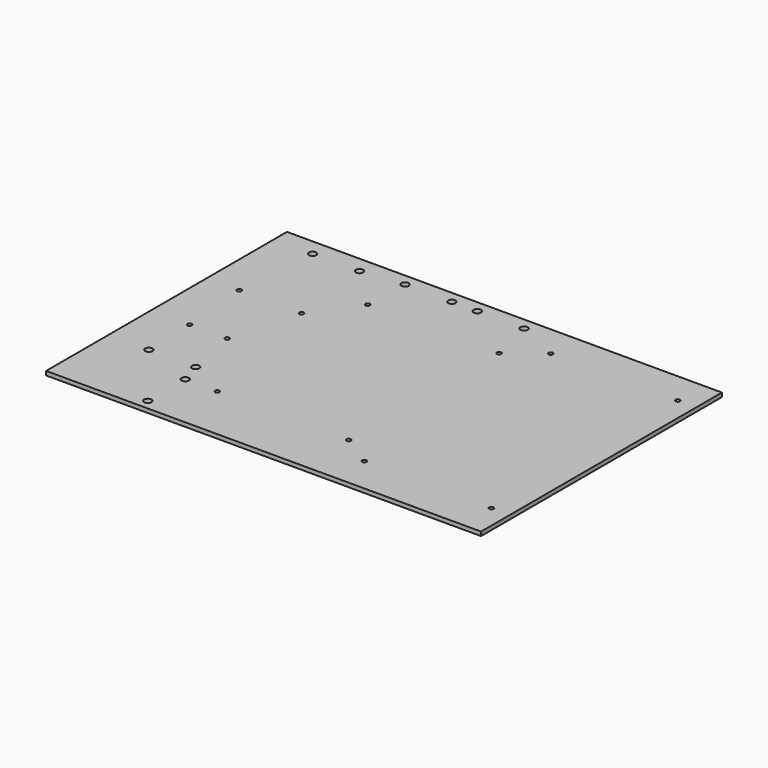
from build123d import *

# Parameters (mm, degrees)
F0_W     = 325
F0_H     = 225
F1_DEPTH = 3
F2_D     = 3.3
F2_DEPTH = 15
F2_TIP   = 0.9914200214
F3_D     = 5.5
F3_DEPTH = 15
F3_TIP   = 1.6523667023


with BuildPart() as f1:
    # F0 (on Top) → F1 (new body)
    with BuildSketch(Plane.XY):
        Rectangle(F0_W, F0_H)
    extrude(amount=F1_DEPTH)

    # F2
    with Locations(Plane(origin=(0, 0, 0), x_dir=(1, 0, 0), z_dir=(0, 0, -1))):
        with Locations((148.6963902414, -88.5308509469), (53.6963902414, -88.5308509469), (148.6963902414, 85.4691490531), (53.6963902414, 85.4691490531), (-68.3129802346, -70.1252296567), (29.8870197654, -70.1252296567), (29.8870197654, 70.3747703433), (-68.3129802346, 70.3747703433), (-91.600900948, -37.483430326), (-105.600900948, 14.516569674), (-133.600900948, 14.516569674), (-138.100900948, -37.483430326)):
            Hole(F2_D / 2, depth=F2_DEPTH)
            with Locations((0, 0, -(F2_DEPTH + F2_TIP / 2))):  # 118° drill point
                Cone(0, F2_D / 2, F2_TIP, mode=Mode.SUBTRACT)

    # F3
    with Locations(Plane(origin=(0, 0, 0), x_dir=(1, 0, 0), z_dir=(0, 0, -1))):
        with Locations((-133.4849408269, -100.1927629113), (-98.4849408269, -100.1927629113), (-67.1641564369, -103.6084368825), (-32.1641564369, -103.6084368825), (-13.1658734754, -103.6084368825), (21.8341265246, -103.6084368825), (-92.5075262785, 70.0210854411), (-92.5075262785, 105.0210854411), (-97.3557943106, 54.175902158), (-132.3557943106, 54.175902158)):
            Hole(F3_D / 2, depth=F3_DEPTH)
            with Locations((0, 0, -(F3_DEPTH + F3_TIP / 2))):  # 118° drill point
                Cone(0, F3_D / 2, F3_TIP, mode=Mode.SUBTRACT)


solid = f1.part
